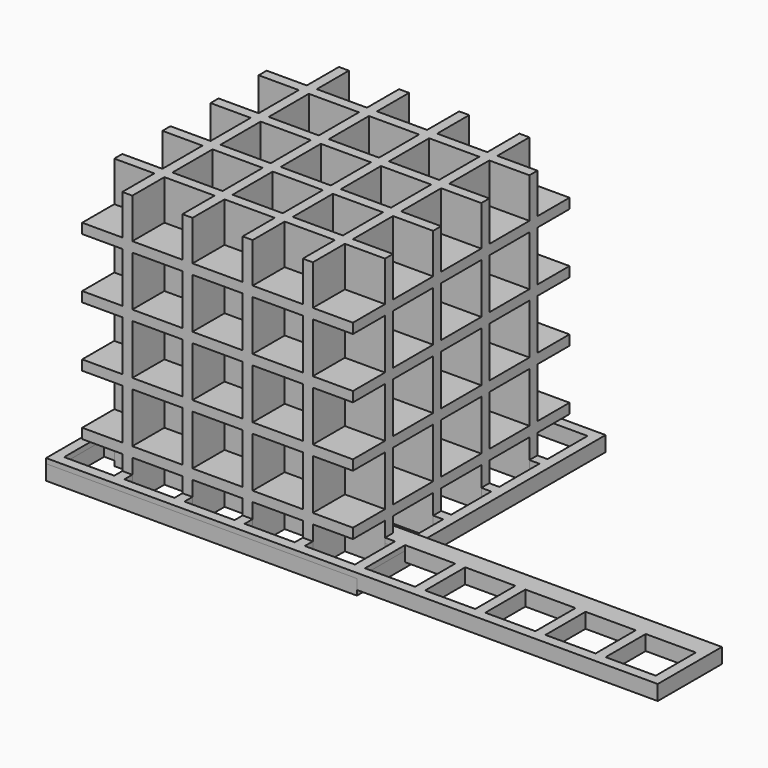
from build123d import *

# Parameters (mm, degrees)
BOX_W            = 10
BOX_H            = 10
BOX_DEPTH        = 10
ARRAY_X_COUNT    = 10
ARRAY_X_PITCH    = 12
BOX001_W         = 122
BOX001_H         = 16
BOX001_DEPTH     = 3
BOX002_W         = 10
BOX002_H         = 10
BOX002_DEPTH     = 10
ARRAY001_X_COUNT = 5
ARRAY001_X_PITCH = 12
ARRAY001_Y_COUNT = 5
ARRAY001_Y_PITCH = 12
BOX003_W         = 62
BOX003_H         = 62
BOX003_DEPTH     = 3
BOX004_W         = 10
BOX004_H         = 10
BOX004_DEPTH     = 10
ARRAY002_X_COUNT = 5
ARRAY002_X_PITCH = 12
ARRAY002_Y_COUNT = 5
ARRAY002_Y_PITCH = 12
ARRAY002_Z_COUNT = 5
ARRAY002_Z_PITCH = 12
BOX005_W         = 54
BOX005_H         = 54
BOX005_DEPTH     = 54


with BuildPart() as array:
    # Box → Box (new body)
    with BuildSketch(Plane.XY):
        with Locations((5, 5)):
            Rectangle(BOX_W, BOX_H)
    extrude(amount=BOX_DEPTH)

    # Array X: Array ×10


with BuildPart() as array_1:
    add(array.part)
    with Locations(*[(i * ARRAY_X_PITCH, 0, 0) for i in range(1, ARRAY_X_COUNT)]):
        add(array.part)


with BuildPart() as cut:
    # Box001 → Box001 (new body)
    with BuildSketch(Plane(origin=(-2, -2, 4), x_dir=(1, 0, 0), z_dir=(0, 0, 1))):
        with Locations((61, 8)):
            Rectangle(BOX001_W, BOX001_H)
    extrude(amount=BOX001_DEPTH)

    # Cut: cut Array
    add(array_1.part, mode=Mode.SUBTRACT)


with BuildPart() as array001:
    # Box002 → Box002 (new body)
    with BuildSketch(Plane.XY):
        with Locations((5, 5)):
            Rectangle(BOX002_W, BOX002_H)
    extrude(amount=BOX002_DEPTH)

    # Array001 X: Array001 ×5


with BuildPart() as array001_1:
    add(array001.part)
    with Locations(*[(i * ARRAY001_X_PITCH, 0, 0) for i in range(1, ARRAY001_X_COUNT)]):
        add(array001.part)

    # Array001 Y: Array001 ×5


with BuildPart() as array001_2:
    add(array001_1.part)
    with Locations(*[(0, i * ARRAY001_Y_PITCH, 0) for i in range(1, ARRAY001_Y_COUNT)]):
        add(array001_1.part)


with BuildPart() as cut001:
    # Box003 → Box003 (new body)
    with BuildSketch(Plane(origin=(-2, -2, 3), x_dir=(1, 0, 0), z_dir=(0, 0, 1))):
        with Locations((31, 31)):
            Rectangle(BOX003_W, BOX003_H)
    extrude(amount=BOX003_DEPTH)

    # Cut001: cut Array001
    add(array001_2.part, mode=Mode.SUBTRACT)


with BuildPart() as array002:
    # Box004 → Box004 (new body)
    with BuildSketch(Plane.XY):
        with Locations((5, 5)):
            Rectangle(BOX004_W, BOX004_H)
    extrude(amount=BOX004_DEPTH)

    # Array002 X: Array002 ×5


with BuildPart() as array002_1:
    add(array002.part)
    with Locations(*[(i * ARRAY002_X_PITCH, 0, 0) for i in range(1, ARRAY002_X_COUNT)]):
        add(array002.part)

    # Array002 Y: Array002 ×5


with BuildPart() as array002_2:
    add(array002_1.part)
    with Locations(*[(0, i * ARRAY002_Y_PITCH, 0) for i in range(1, ARRAY002_Y_COUNT)]):
        add(array002_1.part)

    # Array002 Z: Array002 ×5


with BuildPart() as array002_3:
    add(array002_2.part)
    with Locations(*[(0, 0, i * ARRAY002_Z_PITCH) for i in range(1, ARRAY002_Z_COUNT)]):
        add(array002_2.part)


with BuildPart() as cut002:
    # Box005 → Box005 (new body)
    with BuildSketch(Plane(origin=(2, 2, 2), x_dir=(1, 0, 0), z_dir=(0, 0, 1))):
        with Locations((27, 27)):
            Rectangle(BOX005_W, BOX005_H)
    extrude(amount=BOX005_DEPTH)

    # Cut002: cut Array002
    add(array002_3.part, mode=Mode.SUBTRACT)


solid = Compound([cut.part, cut001.part, cut002.part])
